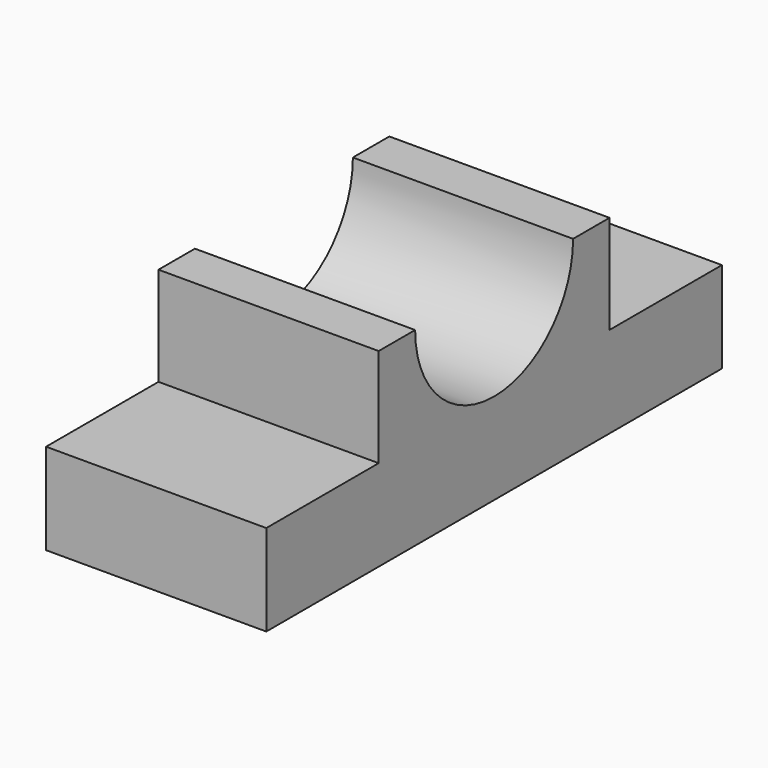
from build123d import *

# Parameters (mm, degrees)
F1_DEPTH = 14.732
F3_DEPTH = 14.733


with BuildPart() as f1:
    # F0 (on Right) → F1 (new body)
    with BuildSketch(Plane.YZ):
        Polygon((-76.149119, -69.946595), (-76.149119, -76.042595), (-38.049119, -76.042595), (-38.049119, -69.946595), (-47.447119, -69.946595), (-47.447119, -63.342595), (-66.751119, -63.342595), (-66.751119, -69.946595), align=None)
    extrude(amount=F1_DEPTH)

    # F2 (on face) → F3 (cut, through all)
    with BuildSketch(Plane.YZ.offset(14.732)):
        with BuildLine():
            ThreePointArc((-63.703119, -63.342595), (-57.099119, -69.946595), (-50.495119, -63.342595))
            Line((-50.495119, -63.342595), (-63.703119, -63.342595))
        make_face()
    extrude(amount=-F3_DEPTH, mode=Mode.SUBTRACT)


solid = f1.part
